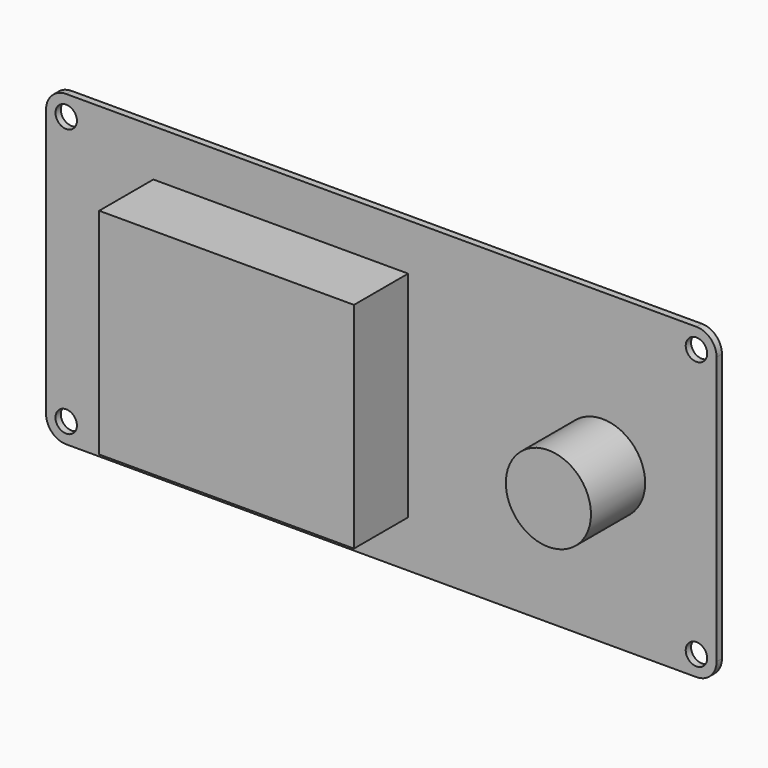
from build123d import *

# Parameters (mm, degrees)
F0_W     = 38
F0_H     = 32
F1_DEPTH = 10.1
F0_R     = 1.6
F0_R_2   = 6.35
F2_DEPTH = 1
F3_DEPTH = 10.1


with BuildPart() as f1:
    # F0 (on Front) → F1 (new body)
    with BuildSketch(Plane.XZ):
        Rectangle(F0_W, F0_H)
    extrude(amount=F1_DEPTH)

    # F0 (on Front) → F2 (join)
    with BuildSketch(Plane.XZ):
        with BuildLine():
            ThreePointArc((-35, -20), (-34.12132, -22.12132), (-32, -23))
            Line((-32, -23), (62, -23))
            ThreePointArc((62, -23), (64.12132, -22.12132), (65, -20))
            Line((65, -20), (65, 20))
            ThreePointArc((65, 20), (64.12132, 22.12132), (62, 23))
            Line((62, 23), (-32, 23))
            ThreePointArc((-32, 23), (-34.12132, 22.12132), (-35, 20))
            Line((-35, 20), (-35, -20))
        make_face()
        with Locations((-32, -20)):
            Circle(F0_R, mode=Mode.SUBTRACT)
        with Locations((62, -20)):
            Circle(F0_R, mode=Mode.SUBTRACT)
        Rectangle(F0_W, F0_H, mode=Mode.SUBTRACT)
        with Locations((-32, 20)):
            Circle(F0_R, mode=Mode.SUBTRACT)
        with Locations((48, 0)):
            Circle(F0_R_2, mode=Mode.SUBTRACT)
        with Locations((62, 20)):
            Circle(F0_R, mode=Mode.SUBTRACT)
        Rectangle(F0_W, F0_H)
        with Locations((48, 0)):
            Circle(F0_R_2)
    extrude(amount=-F2_DEPTH)

    # F0 (on Front) → F3 (join, through all)
    with BuildSketch(Plane.XZ):
        with Locations((48, 0)):
            Circle(F0_R_2)
    extrude(amount=F3_DEPTH)


solid = f1.part
